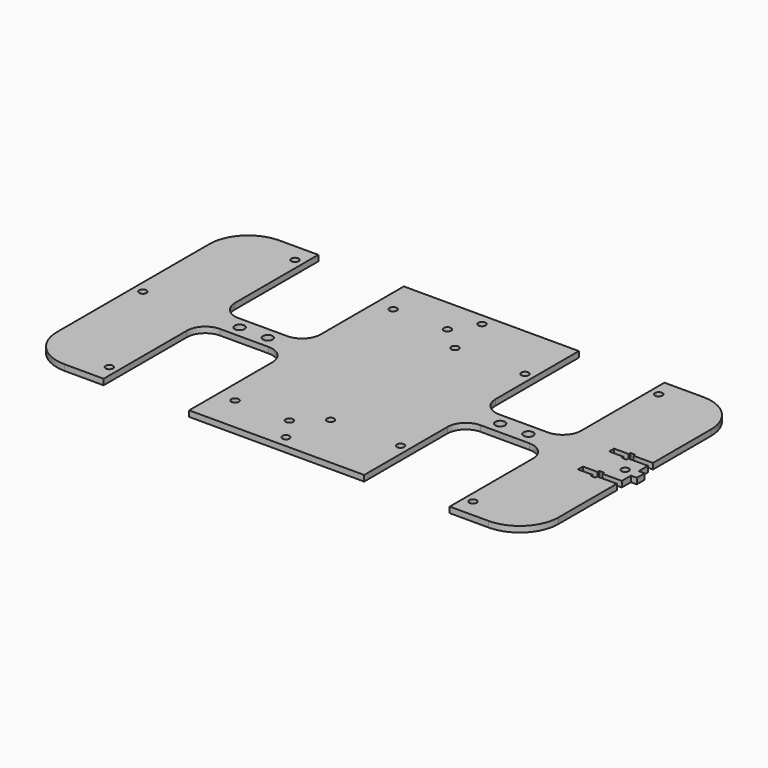
from build123d import *

# Parameters (mm, degrees)
PAD_DEPTH       = 3
SKETCH004_R     = 2.5
POCKET_DEPTH    = 588.208656
SKETCH005_R     = 1.9
POCKET001_DEPTH = 588.208656
SKETCH014_R     = 1.9
POCKET008_DEPTH = 3.001
SKETCH025_R     = 1.9
POCKET016_DEPTH = 3.001
POCKET020_DEPTH = 588.208656
SKETCH032_W     = 3
SKETCH032_H     = 5
PAD007_DEPTH    = 3
SKETCH037_R     = 1.9
POCKET024_DEPTH = 593.505869


with BuildPart() as part:
    # Sketch → Pad (new body)
    with BuildSketch(Plane.XY):
        with BuildLine():
            Line((0, -69), (-45, -69))
            Line((-45, -69), (-45, -15.5))
            ThreePointArc((-45, -15.5), (-47.782486, -8.782486), (-54.5, -6))
            Line((-79.5, -6), (-54.5, -6))
            ThreePointArc((-79.5, -6), (-86.217514, -8.782486), (-89, -15.5))
            Line((-89, -69), (-89, -15.5))
            Line((-109.000046, -69), (-89, -69))
            ThreePointArc((-129, -48.999983), (-123.142158, -63.142113), (-109.000046, -69))
            Line((-129, 0), (-129, -48.999983))
            Line((-129, 0), (-129, 48.999983))
            ThreePointArc((-109.000046, 69), (-123.142158, 63.142113), (-129, 48.999983))
            Line((-109.000046, 69), (-89, 69))
            Line((-89, 69), (-89, 15.5))
            ThreePointArc((-89, 15.5), (-86.217514, 8.782485), (-79.5, 6))
            Line((-79.5, 6), (-54.5, 6))
            ThreePointArc((-54.5, 6), (-47.782485, 8.782485), (-45, 15.5))
            Line((-45, 69), (-45, 15.5))
            Line((0, 69), (-45, 69))
            Line((0, 69), (45, 69))
            Line((45, 69), (45, 15.5))
            ThreePointArc((45, 15.5), (47.782485, 8.782486), (54.499999, 6))
            Line((79.499999, 6), (54.499999, 6))
            ThreePointArc((79.499999, 6), (86.217514, 8.782486), (89, 15.5))
            Line((89, 69), (89, 15.5))
            Line((109.000054, 69), (89, 69))
            ThreePointArc((129, 48.999983), (123.142161, 63.142111), (109.000054, 69))
            Line((129, 0), (129, 48.999983))
            Line((129, 0), (129, -48.999983))
            ThreePointArc((109.000054, -69), (123.142161, -63.142111), (129, -48.999983))
            Line((109.000054, -69), (89, -69))
            Line((89, -69), (89, -15.5))
            ThreePointArc((89, -15.5), (86.217514, -8.782486), (79.5, -6))
            Line((79.5, -6), (54.5, -6))
            ThreePointArc((54.5, -6), (47.782486, -8.782486), (45, -15.5))
            Line((45, -69), (45, -15.5))
            Line((0, -69), (45, -69))
        make_face()
    extrude(amount=PAD_DEPTH)

    # Sketch004 (on Face30 of Pad) → Pocket (cut, through all)
    with BuildSketch(Plane.XY.offset(3)):
        with Locations((-74.25, 0)):
            Circle(SKETCH004_R)
        with Locations((-59.75, 0)):
            Circle(SKETCH004_R)
    pocket = extrude(amount=-POCKET_DEPTH, mode=Mode.SUBTRACT)

    # Mirrored: Pocket across Sketch004 V_Axis
    add(pocket.mirror(Plane(origin=(0, 0, 3), x_dir=(0, 0, 1), z_dir=(1, 0, 0))), mode=Mode.SUBTRACT)

    # Sketch005 (on Face30 of Clone) → Pocket001 (cut, through all)
    with BuildSketch(Plane.XY.offset(3)):
        with Locations((-124, 0)):
            Circle(SKETCH005_R)
        with Locations((-93.52, -59.69)):
            Circle(SKETCH005_R)
        with Locations((-93.52, 59.69)):
            Circle(SKETCH005_R)
    pocket001 = extrude(amount=-POCKET001_DEPTH, mode=Mode.SUBTRACT)

    # Mirrored006: Pocket001 across Sketch005 V_Axis
    add(pocket001.mirror(Plane(origin=(0, 0, 3), x_dir=(0, 0, 1), z_dir=(1, 0, 0))), mode=Mode.SUBTRACT)

    # Sketch014 (on Face5 of Mirrored006) → Pocket008 (cut, through all)
    with BuildSketch(Plane.XY.offset(3)):
        with Locations((-35.94, 50.8)):
            Circle(SKETCH014_R)
        with Locations((-8, 50.8)):
            Circle(SKETCH014_R)
        with Locations((-8, -50.8)):
            Circle(SKETCH014_R)
        with Locations((-35.94, -50.8)):
            Circle(SKETCH014_R)
    extrude(amount=-POCKET008_DEPTH, mode=Mode.SUBTRACT)

    # Sketch025 (on Face5 of Pocket008) → Pocket016 (cut, through all)
    with BuildSketch(Plane.XY.offset(3)):
        with Locations((40.5, -40)):
            Circle(SKETCH025_R)
        with Locations((4.5, 40)):
            Circle(SKETCH025_R)
        with Locations((4.5, -40)):
            Circle(SKETCH025_R)
        with Locations((40.5, 40)):
            Circle(SKETCH025_R)
    extrude(amount=-POCKET016_DEPTH, mode=Mode.SUBTRACT)

    # Sketch031 (on ShapeBinder) → Pocket020 (cut, through all)
    with BuildSketch(Plane.XY.offset(3)):
        Polygon((129, 8.4), (129, 11.6), (119, 11.6), (119, 12.75), (116.5, 12.75), (116.5, 11.6), (109, 11.6), (109, 8.4), (116.5, 8.4), (116.5, 7.25), (119, 7.25), (119, 8.4), align=None)
    pocket020 = extrude(amount=-POCKET020_DEPTH, mode=Mode.SUBTRACT)

    # Mirrored018: Pocket020 across Sketch031 H_Axis
    add(pocket020.mirror(Plane(origin=(0, 0, 3), x_dir=(0, 0, 1), z_dir=(0, 1, 0))), mode=Mode.SUBTRACT)

    # Sketch032 (on ShapeBinder) → Pad007 (join)
    with BuildSketch(Plane.XY.offset(3)):
        with Locations((130.5, 0)):
            Rectangle(SKETCH032_W, SKETCH032_H)
    extrude(amount=-PAD007_DEPTH)

    # Sketch037 (on Face80 of Pad007) → Pocket024 (cut, through all)
    with BuildSketch(Plane.XY.offset(3)):
        with Locations((0, 63)):
            Circle(SKETCH037_R)
    pocket024 = extrude(amount=-POCKET024_DEPTH, mode=Mode.SUBTRACT)

    # Mirrored020: Pocket024 across Sketch037 H_Axis
    add(pocket024.mirror(Plane(origin=(0, 0, 3), x_dir=(0, 0, 1), z_dir=(0, 1, 0))), mode=Mode.SUBTRACT)


solid = part.part
